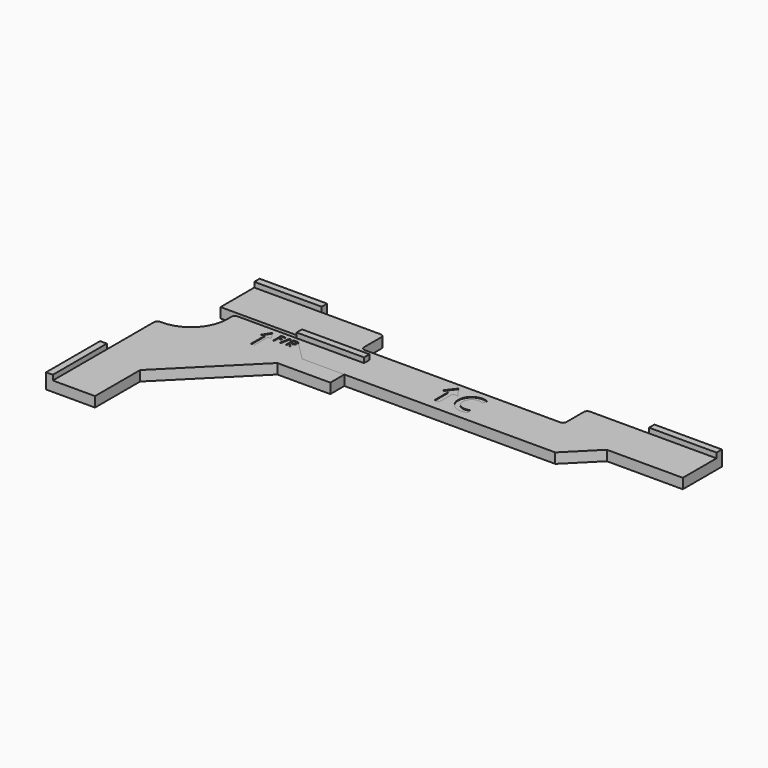
from build123d import *

# Parameters (mm, degrees)
PAD_DEPTH       = 6
SKETCH002_W     = 40
SKETCH002_H     = 4
SKETCH002_W_2   = 4
SKETCH002_H_2   = 40
PAD001_DEPTH    = 9
POCKET_DEPTH    = 0.4
PAD002_DEPTH    = 6
SKETCH005_W     = 40
SKETCH005_H     = 4
PAD003_DEPTH    = 9
POCKET001_DEPTH = 0.4


with BuildPart() as corner:
    # Sketch001 → Pad (new body)
    with BuildSketch(Plane.XY):
        with BuildLine():
            ThreePointArc((-11.5, -12), (3.702796, -5.702796), (10, 9.5))
            Line((10, 9.5), (10, 12.6))
            ThreePointArc((12, 14.6), (10.585786, 14.014214), (10, 12.6))
            Line((12, 14.6), (87, 14.6))
            Line((87, 14.6), (87, -10.4))
            Line((87, -10.4), (55.574134, -10.4))
            Line((10.4, -55.574134), (55.574134, -10.4))
            Line((10.4, -89), (10.4, -55.574134))
            Line((-14.6, -89), (10.4, -89))
            Line((-14.6, -89), (-14.6, -14))
            ThreePointArc((-12.6, -12), (-14.014214, -12.585786), (-14.6, -14))
            Line((-11.5, -12), (-12.6, -12))
        make_face()
    extrude(amount=PAD_DEPTH)

    # Sketch002 → Pad001 (join)
    with BuildSketch(Plane.XY):
        with Locations((67, 16.6)):
            Rectangle(SKETCH002_W, SKETCH002_H)
        with Locations((-16.6, -69)):
            Rectangle(SKETCH002_W_2, SKETCH002_H_2)
    extrude(amount=PAD001_DEPTH)

    # Sketch003 (on Face4 of Pad001) → Pocket (cut)
    with BuildSketch(Plane.XY.offset(6)):
        Polygon((34, -3), (34, 7), (32, 7), (35, 12), (38, 7), (36, 7), (36, -3), align=None)
        Polygon((40, 6), (40, 12), (42.8, 12), (42.8, 10.8), (41.2, 10.8), (41.2, 9.6), (42.4, 9.6), (42.4, 8.4), (41.2, 8.4), (41.2, 6), align=None)
        Polygon((44.8, 12), (43.742038, 6), (44.942038, 6), (46, 12), align=None)
        with BuildLine():
            Line((47.2, 12), (47.2, 6))
            Line((48.4, 6), (47.2, 6))
            Line((48.4, 8.4), (48.4, 6))
            Line((48.4, 8.4), (49.6, 6))
            Line((49.6, 6), (50.8, 6))
            Line((50.8, 6), (49.6, 8.4))
            ThreePointArc((49.6, 8.4), (51.4, 10.2), (49.6, 12))
            Line((47.2, 12), (49.6, 12))
        make_face()
        with BuildLine():
            Line((48.4, 10.8), (48.4, 9.6))
            Line((48.4, 9.6), (49.6, 9.6))
            ThreePointArc((49.6, 9.6), (50.2, 10.2), (49.6, 10.8))
            Line((48.4, 10.8), (49.6, 10.8))
        make_face(mode=Mode.SUBTRACT)
    extrude(amount=-POCKET_DEPTH, mode=Mode.SUBTRACT)


with BuildPart() as screen:
    # Sketch004 → Pad002 (new body)
    with BuildSketch(Plane.XY):
        with BuildLine():
            ThreePointArc((77, 40), (76.414214, 41.414214), (75, 42))
            Line((75, 42), (0, 42))
            Line((0, 42), (0, 17))
            Line((45, 17), (0, 17))
            Line((62, 0), (45, 17))
            Line((212, 0), (62, 0))
            Line((229, 17), (212, 0))
            Line((274, 17), (229, 17))
            Line((274, 42), (274, 17))
            Line((199, 42), (274, 42))
            ThreePointArc((199, 42), (197.585786, 41.414214), (197, 40))
            Line((197, 40), (197, 27))
            ThreePointArc((195, 25), (196.414214, 25.585786), (197, 27))
            Line((195, 25), (79, 25))
            ThreePointArc((77, 27), (77.585786, 25.585786), (79, 25))
            Line((77, 40), (77, 27))
        make_face()
    extrude(amount=PAD002_DEPTH)

    # Sketch005 → Pad003 (join)
    with BuildSketch(Plane.XY):
        with Locations((254, 44)):
            Rectangle(SKETCH005_W, SKETCH005_H)
        with Locations((20, 44)):
            Rectangle(SKETCH005_W, SKETCH005_H)
    extrude(amount=PAD003_DEPTH)

    # Sketch006 (on Face4 of Pad003) → Pocket001 (cut)
    with BuildSketch(Plane.XY.offset(6)):
        Polygon((137, 22), (132.4, 16), (135.6, 16), (135.6, 6), (138.4, 6), (138.4, 16), (141.6, 16), align=None)
        with BuildLine():
            ThreePointArc((155.693989, 20.192173), (144, 13.096087), (155.693989, 6))
            Line((154.622475, 8.586863), (155.693989, 6))
            ThreePointArc((154.622475, 17.605311), (146.783634, 13.096087), (154.622475, 8.586863))
            Line((155.693989, 20.192173), (154.622475, 17.605311))
        make_face()
    extrude(amount=-POCKET001_DEPTH, mode=Mode.SUBTRACT)


solid = Compound([corner.part, screen.part])
